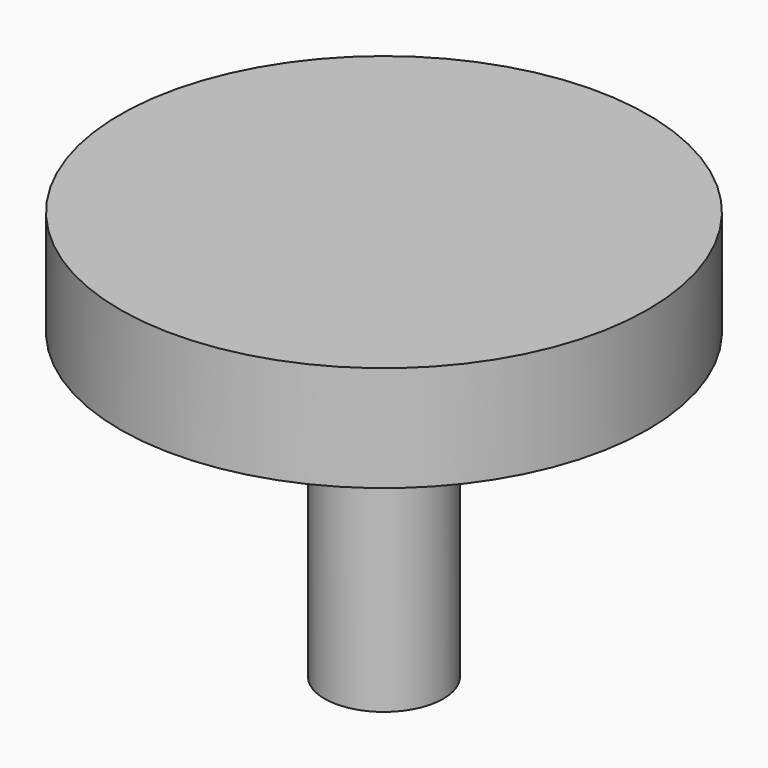
from build123d import *

# Parameters (mm, degrees)
F0_R     = 20
F1_DEPTH = 8
F2_R     = 4.5
F3_DEPTH = 23
F5_D     = 4.1
F5_DEPTH = 20
F5_TIP   = 1.231764269


with BuildPart() as f1:
    # F0 (on Top) → F1 (new body)
    with BuildSketch(Plane.XY):
        Circle(F0_R)
    extrude(amount=-F1_DEPTH)

    # F2 (on face) → F3 (join)
    with BuildSketch(Plane(origin=(0, 0, -8), x_dir=(1, 0, 0), z_dir=(0, 0, -1))):
        Circle(F2_R)
    extrude(amount=F3_DEPTH)

    # F5
    with Locations(Plane(origin=(0, 0, -31), x_dir=(1, 0, 0), z_dir=(0, 0, -1))):
        with Locations((0, 0)):
            Hole(F5_D / 2, depth=F5_DEPTH)
            with Locations((0, 0, -(F5_DEPTH + F5_TIP / 2))):  # 118° drill point
                Cone(0, F5_D / 2, F5_TIP, mode=Mode.SUBTRACT)


solid = f1.part
